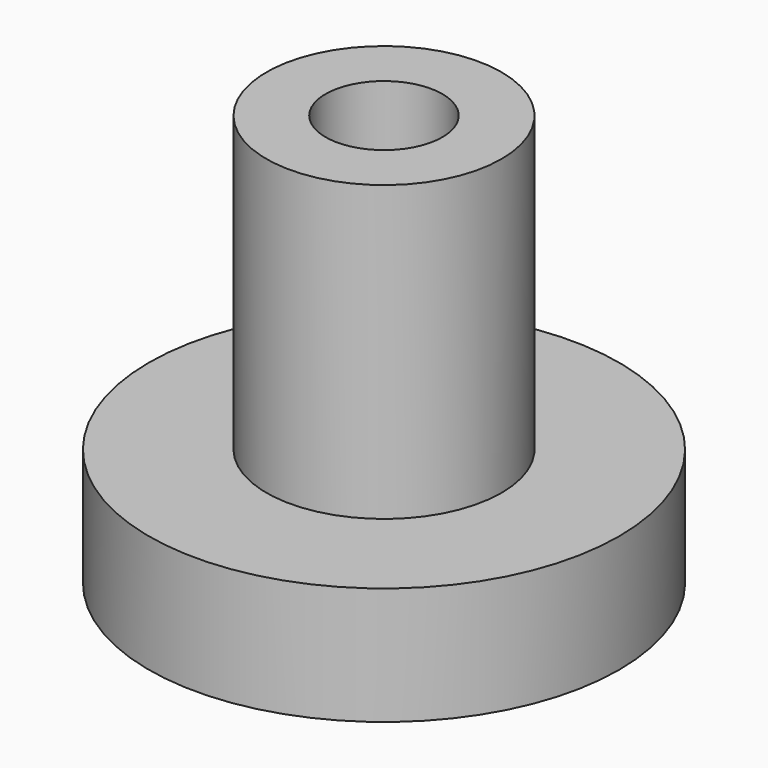
from build123d import *

# Parameters (mm, degrees)
F0_R     = 2.54
F1_DEPTH = 8.89
F2_R     = 5.08
F2_R_2   = 2.54
F3_DEPTH = 2.54
F4_R     = 1.262095
F5_DEPTH = 25.4


with BuildPart() as f1:
    # F0 (on Top) → F1 (new body)
    with BuildSketch(Plane.XY):
        Circle(F0_R)
    extrude(amount=F1_DEPTH)

    # F2 (on face) → F3 (join)
    with BuildSketch(Plane(origin=(0, 0, 0), x_dir=(1, 0, 0), z_dir=(0, 0, -1))):
        Circle(F2_R)
        Circle(F2_R_2, mode=Mode.SUBTRACT)
    extrude(amount=-F3_DEPTH)

    # F4 (on face) → F5 (cut)
    with BuildSketch(Plane(origin=(0, 0, 0), x_dir=(1, 0, 0), z_dir=(0, 0, -1))):
        Circle(F4_R)
    extrude(amount=-F5_DEPTH, mode=Mode.SUBTRACT)


solid = f1.part
